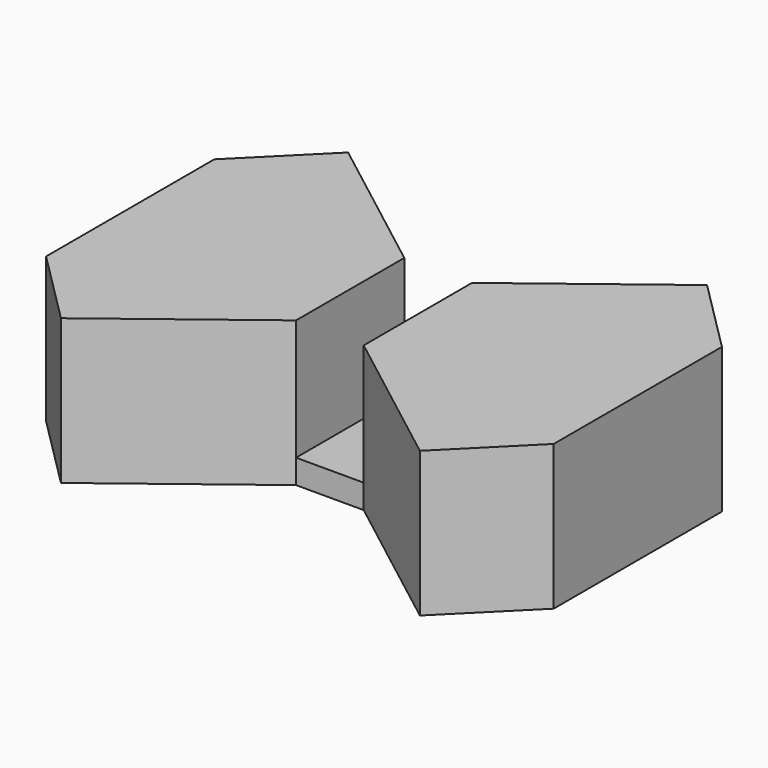
from build123d import *

# Parameters (mm, degrees)
F1_DEPTH = 19.05
F0_W     = 8.89
F0_H     = 17.78
F2_DEPTH = 3.175


with BuildPart() as f1:
    # F0 (on Top) → F1 (new body)
    with BuildSketch(Plane.XY):
        Polygon((23.5731723178, -23.5731723178), (33.3375, -13.8088446356), (33.3375, 13.8088446356), (23.5731723178, 23.5731723178), (4.445, 8.89), (4.445, -8.89), align=None)
    extrude(amount=F1_DEPTH)



with BuildPart() as f1b:
    # F0 (on Top) → F1, piece 2 (new body)
    with BuildSketch(Plane.XY):
        Polygon((-23.5731723178, -23.5731723178), (-4.445, -8.89), (-4.445, 8.89), (-23.5731723178, 23.5731723178), (-33.3375, 13.8088446356), (-33.3375, -13.8088446356), align=None)
    extrude(amount=F1_DEPTH)


with BuildPart() as f1_1:
    add(f1.part)

    add(f1b.part)  # F2 merges F1b
    # F0 (on Top) → F2 (join)
    with BuildSketch(Plane.XY):
        Rectangle(F0_W, F0_H)
    extrude(amount=F2_DEPTH)


solid = f1_1.part
